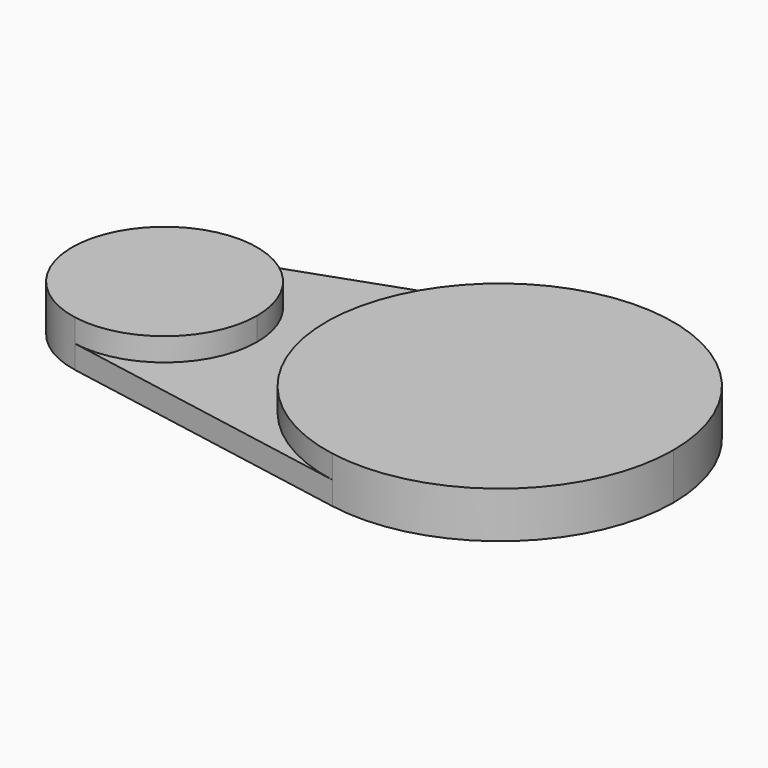
from build123d import *

# Parameters (mm, degrees)
F1_DEPTH = 10
F2_DEPTH = 5


with BuildPart() as f1:
    # F0 (on Top) → F1 (new body)
    with BuildSketch(Plane.XY):
        with BuildLine():
            ThreePointArc((-42.929963, -13.912781), (-26.551179, -9.578887), (-19.375, 5.76874))
            ThreePointArc((-19.375, 5.76874), (-27.828352, 22.098924), (-46.042492, 24.624628))
            ThreePointArc((-46.042492, 24.624628), (-59.310085, 4.158654), (-42.929963, -13.912781))
        make_face()
        with BuildLine():
            ThreePointArc((66.157904, 11.263516), (50.307869, 41.882612), (16.156356, 46.618307))
            ThreePointArc((16.156356, 46.618307), (-8.720381, 8.244604), (21.992349, -25.639335))
            ThreePointArc((21.992349, -25.639335), (52.702568, -17.513283), (66.157904, 11.263516))
        make_face()
    extrude(amount=F1_DEPTH)

    # F0 (on Top) → F2 (join)
    with BuildSketch(Plane.XY):
        with BuildLine():
            ThreePointArc((-46.042492, 24.624628), (-27.828352, 22.098924), (-19.375, 5.76874))
            ThreePointArc((-19.375, 5.76874), (-26.551179, -9.578887), (-42.929963, -13.912781))
            Line((-42.929963, -13.912781), (21.992349, -25.639335))
            ThreePointArc((21.992349, -25.639335), (-8.720381, 8.244604), (16.156356, 46.618307))
            Line((16.156356, 46.618307), (-46.042492, 24.624628))
        make_face()
    extrude(amount=F2_DEPTH)


solid = f1.part
